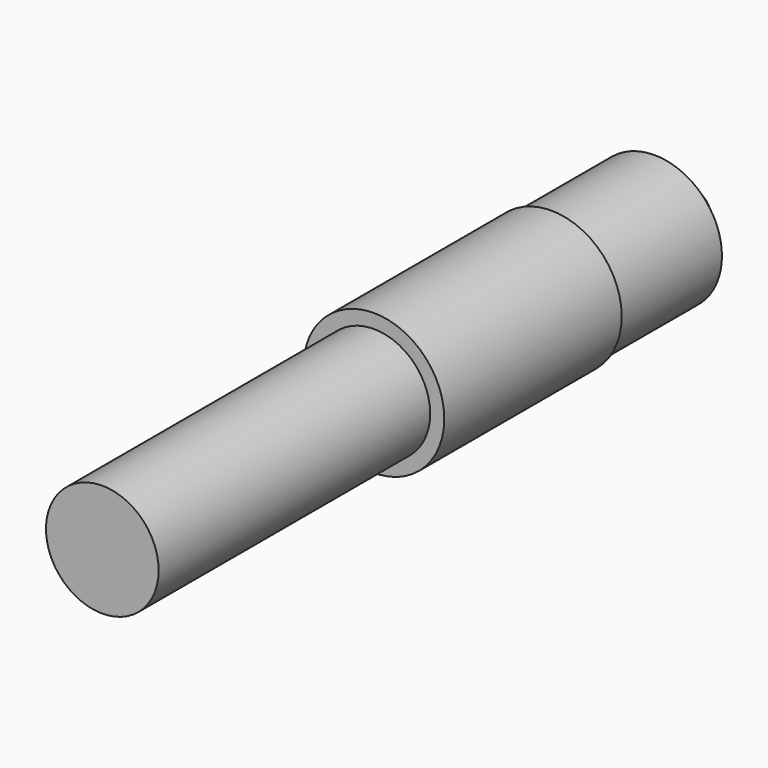
from build123d import *

# Parameters (mm, degrees)
F0_R     = 10
F1_DEPTH = 105
F2_R     = 15.829985
F2_R_2   = 9.5
F3_DEPTH = 25.3
F6_R     = 17.927182
F6_R_2   = 8
F7_DEPTH = 48.2


with BuildPart() as f1:
    # F0 (on Front) → F1 (new body)
    with BuildSketch(Plane.XZ):
        Circle(F0_R)
    extrude(amount=F1_DEPTH)

    # F2 (on face) → F3 (cut)
    with BuildSketch(Plane(origin=(0, 0, 0), x_dir=(-1, 0, 0), z_dir=(0, 1, 0))):
        Circle(F2_R)
        Circle(F2_R_2, mode=Mode.SUBTRACT)
    extrude(amount=-F3_DEPTH, mode=Mode.SUBTRACT)

    # F4 (on Right) → F5 (revolve, cut)
    with BuildSketch(Plane.YZ):
        Polygon((-7, 17.069709), (-7, 6.35), (3.998523, 0), (6.907294, 0.035041), (6.702085, 17.069709), align=None)
    revolve(axis=Axis((0, 5.452908, 0.01752), (0, 0.999927, 0.012046)), mode=Mode.SUBTRACT)

    # F6 (on face) → F7 (cut)
    with BuildSketch(Plane.XZ.offset(105)):
        Circle(F6_R)
        Circle(F6_R_2, mode=Mode.SUBTRACT)
    extrude(amount=-F7_DEPTH, mode=Mode.SUBTRACT)


solid = f1.part
